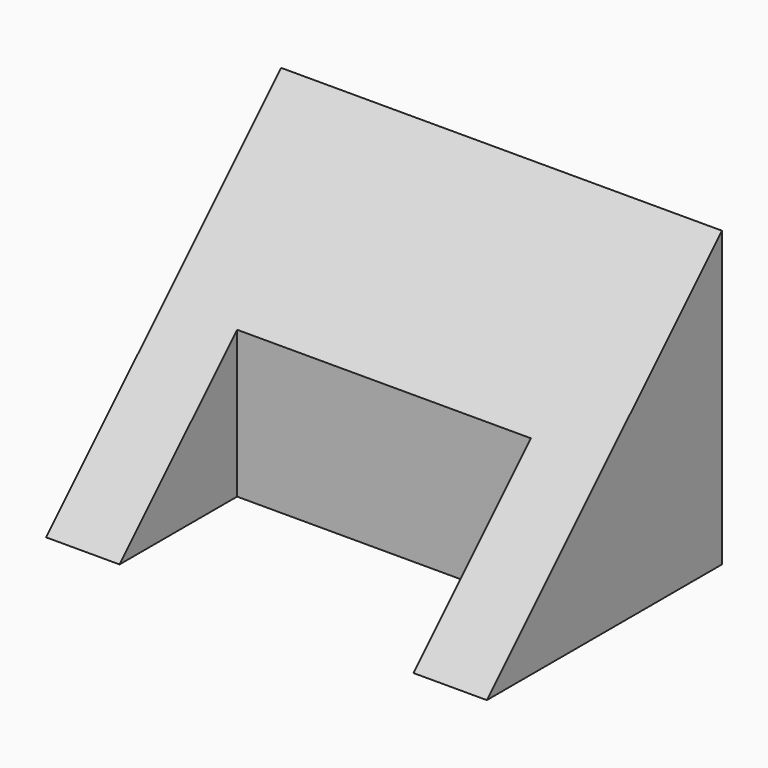
from build123d import *

# Parameters (mm, degrees)
F1_DEPTH = 38.1
F2_W     = 25.4
F2_H     = 12.7
F3_DEPTH = 12.7


with BuildPart() as f1:
    # F0 (on Right) → F1 (new body)
    with BuildSketch(Plane.YZ):
        Polygon((-25.4, 0), (0, 0), (0, 25.4), align=None)
    extrude(amount=F1_DEPTH)

    # F2 (on Top) → F3 (cut)
    with BuildSketch(Plane.XY):
        with Locations((19.05, -19.05)):
            Rectangle(F2_W, F2_H)
    extrude(amount=F3_DEPTH, mode=Mode.SUBTRACT)


solid = f1.part
